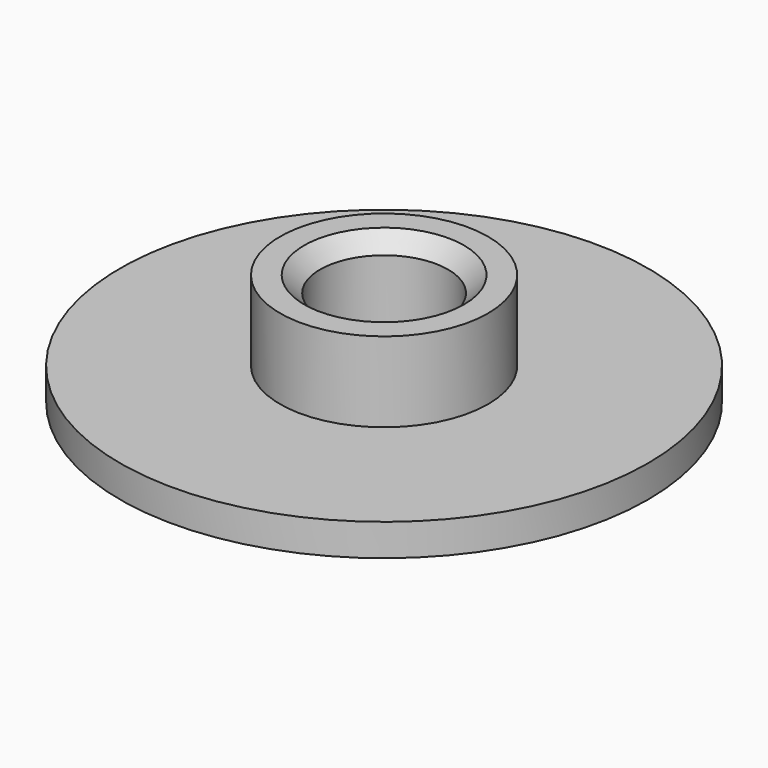
from build123d import *

# Parameters (mm, degrees)
SKETCH_R      = 16.5
SKETCH_R_2    = 4
PAD_DEPTH     = 2
SKETCH001_R   = 6.5
SKETCH001_R_2 = 4
PAD001_DEPTH  = 5
CHAMFER_SIZE  = 1


with BuildPart() as part:
    # Sketch → Pad (new body)
    with BuildSketch(Plane.XY):
        Circle(SKETCH_R)
        Circle(SKETCH_R_2, mode=Mode.SUBTRACT)
    extrude(amount=PAD_DEPTH)

    # Sketch001 (on Face4 of Pad) → Pad001 (join)
    with BuildSketch(Plane.XY.offset(2)):
        Circle(SKETCH001_R)
        Circle(SKETCH001_R_2, mode=Mode.SUBTRACT)
    extrude(amount=PAD001_DEPTH)

    # Chamfer
    chamfer_edges = [part.edges().sort_by_distance(p)[0] for p in [
        (-4, 0, 7),
    ]]
    chamfer(chamfer_edges, length=CHAMFER_SIZE)


solid = part.part
